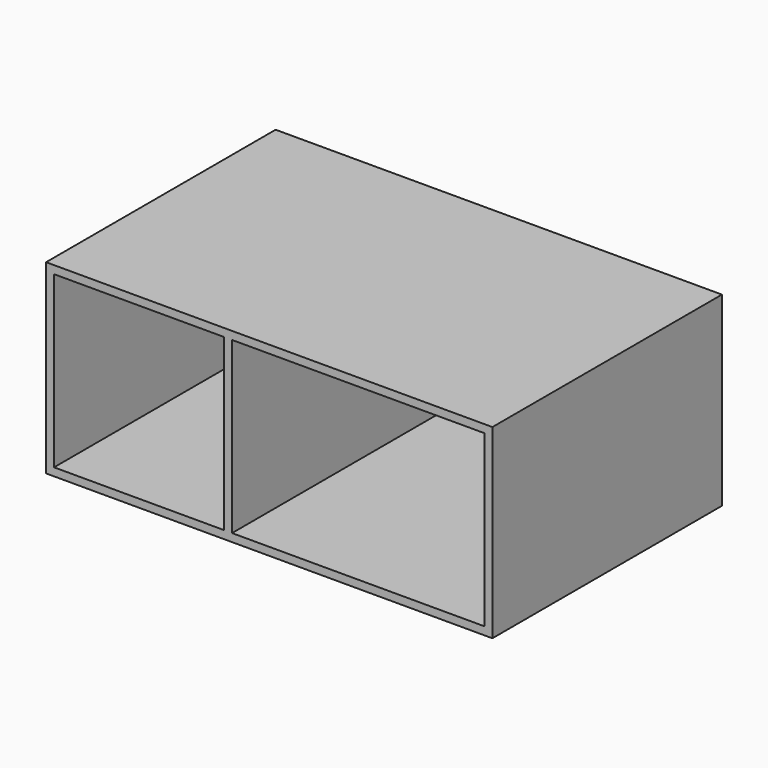
from build123d import *

# Parameters (mm, degrees)
F0_W     = 1066.8
F0_H     = 685.8
F1_DEPTH = 19.05
F2_W     = 19.05
F2_H     = 666.75
F2_H_2   = 664.6272460461
F3_DEPTH = 406.4
F5_W     = 1066.8
F5_H     = 685.8
F6_DEPTH = 19.05


with BuildPart() as f1:
    # F0 (on Top) → F1 (new body)
    with BuildSketch(Plane.XY):
        Rectangle(F0_W, F0_H)
    extrude(amount=F1_DEPTH)

    # F2 (on face) → F3 (join)
    with BuildSketch(Plane.XY.offset(19.05)):
        with Locations((-523.875, -9.525)):
            Rectangle(F2_W, F2_H)
        Polygon((-533.4, 323.85), (-514.35, 323.85), (514.35, 323.85), (533.4, 323.85), (533.4, 342.9), (-533.4, 342.9), align=None)
        with Locations((523.875, -9.525)):
            Rectangle(F2_W, F2_H)
        with Locations((-98.425, -10.586376977)):
            Rectangle(F2_W, F2_H_2)
    extrude(amount=F3_DEPTH)

    # F5 (on offset) → F6 (join)
    with BuildSketch(Plane.XY.offset(425.45)):
        Rectangle(F5_W, F5_H)
    extrude(amount=F6_DEPTH)


solid = f1.part
